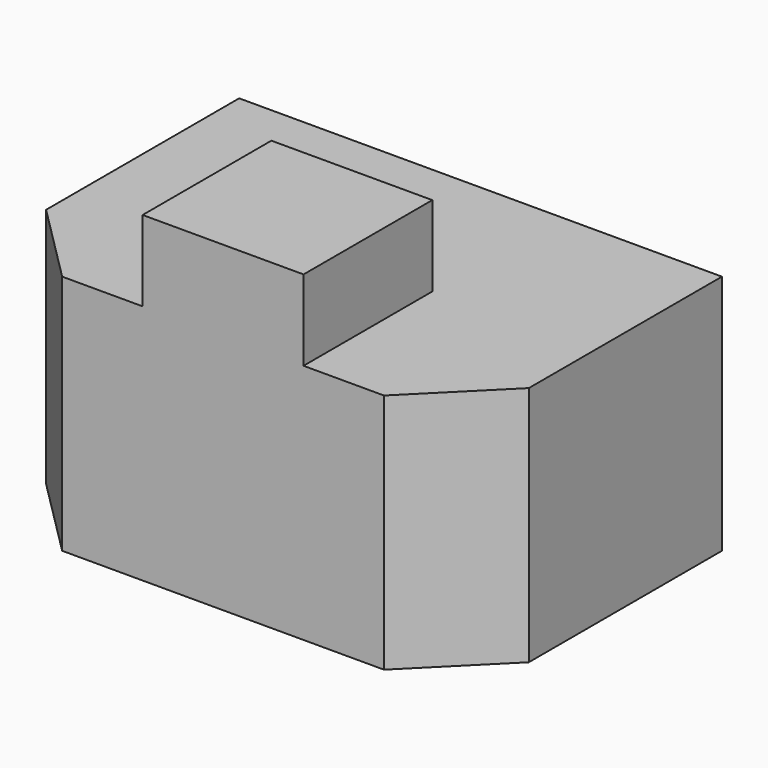
from build123d import *

# Parameters (mm, degrees)
F1_DEPTH = 76.2
F3_W     = 50.8
F3_H     = 50.8
F4_DEPTH = 25.4


with BuildPart() as f1:
    # F0 (on Top) → F1 (new body)
    with BuildSketch(Plane.XY):
        Polygon((76.2, 50.8), (-76.2, 50.8), (-76.2, -25.4), (-50.8, -50.8), (50.8, -50.8), (76.2, -25.4), align=None)
    extrude(amount=F1_DEPTH)

    # F3 (on offset) → F4 (join)
    with BuildSketch(Plane.XY.offset(76.2)):
        with Locations((0, -25.4)):
            Rectangle(F3_W, F3_H)
    extrude(amount=F4_DEPTH)


solid = f1.part
